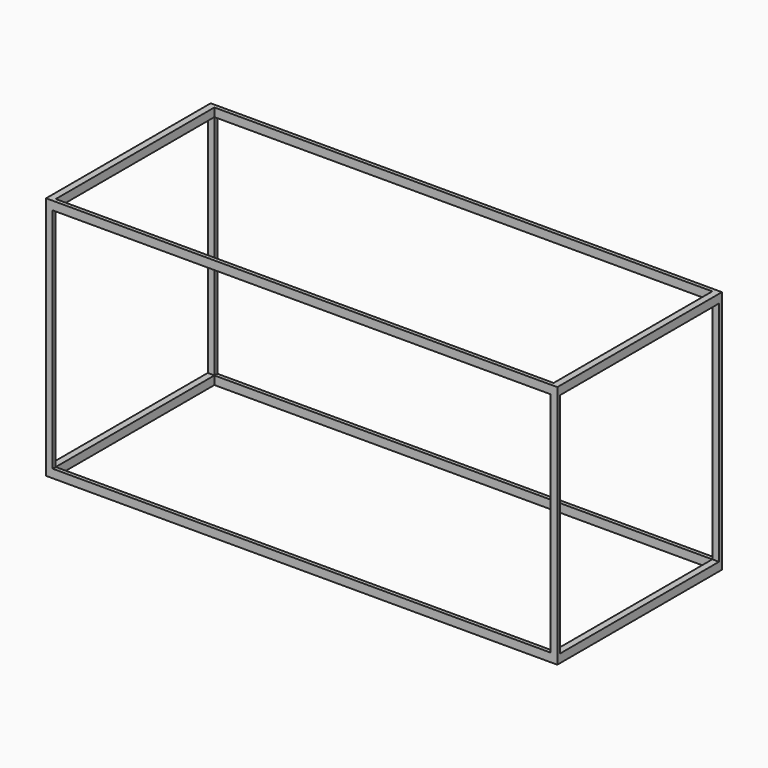
from build123d import *

# Parameters (mm, degrees)
F4_W     = 6058
F4_H     = 2438
F4_W_2   = 5900
F4_H_2   = 2350
F0_DEPTH = 2896
F1_W     = 5900
F1_H     = 2695
F5_DEPTH = 2438.001
F2_W     = 2352
F2_H     = 2695
F3_DEPTH = 6058.001


with BuildPart() as f0:
    # F4 (on Top) → F0 (new body)
    with BuildSketch(Plane.XY):
        Rectangle(F4_W, F4_H)
        Rectangle(F4_W_2, F4_H_2, mode=Mode.SUBTRACT)
    extrude(amount=F0_DEPTH)

    # F1 (on face) → F5 (cut, through all)
    with BuildSketch(Plane.XZ.offset(1219)):
        with Locations((0, 1448)):
            Rectangle(F1_W, F1_H)
    extrude(amount=-F5_DEPTH, mode=Mode.SUBTRACT)

    # F2 (on face) → F3 (cut, through all)
    with BuildSketch(Plane(origin=(-3029, 0, 0), x_dir=(0, -1, 0), z_dir=(-1, 0, 0))):
        with Locations((0, 1448)):
            Rectangle(F2_W, F2_H)
    extrude(amount=-F3_DEPTH, mode=Mode.SUBTRACT)


solid = f0.part
